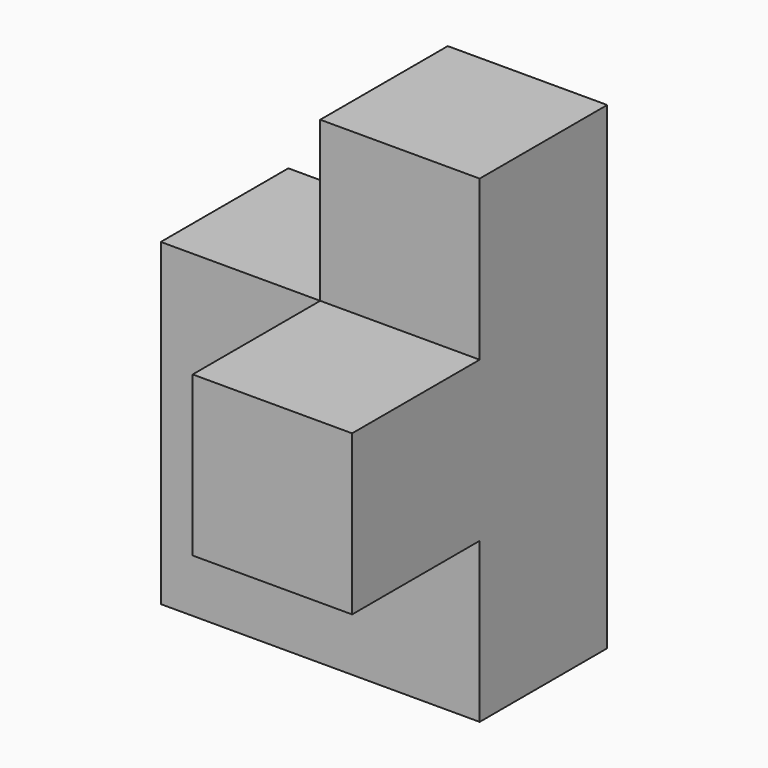
from build123d import *

# Parameters (mm, degrees)
F0_W     = 19.05
F0_H     = 19.05
F1_DEPTH = 19.05
F2_W     = 19.05
F2_H     = 19.05
F3_DEPTH = 38.1
F4_ANGLE = 180


with BuildPart() as f1:
    # F0 (on Front) → F1 (new body)
    with BuildSketch(Plane.XZ):
        with Locations((-28.575, 47.625)):
            Rectangle(F0_W, F0_H)
        Polygon((-19.05, 38.1), (-38.1, 38.1), (-38.1, 0), (0, 0), (0, 38.1), align=None)
    extrude(amount=-F1_DEPTH)

    # F2 (on Front) → F3 (join)
    with BuildSketch(Plane.XZ):
        with Locations((-28.575, 28.575)):
            Rectangle(F2_W, F2_H)
    extrude(amount=-F3_DEPTH)


with BuildPart() as f1_1:
    # F4: moved
    add(f1.part.rotate(Axis((-38.1, 0, 28.575), (0, 0, -1)), F4_ANGLE))


solid = f1_1.part
